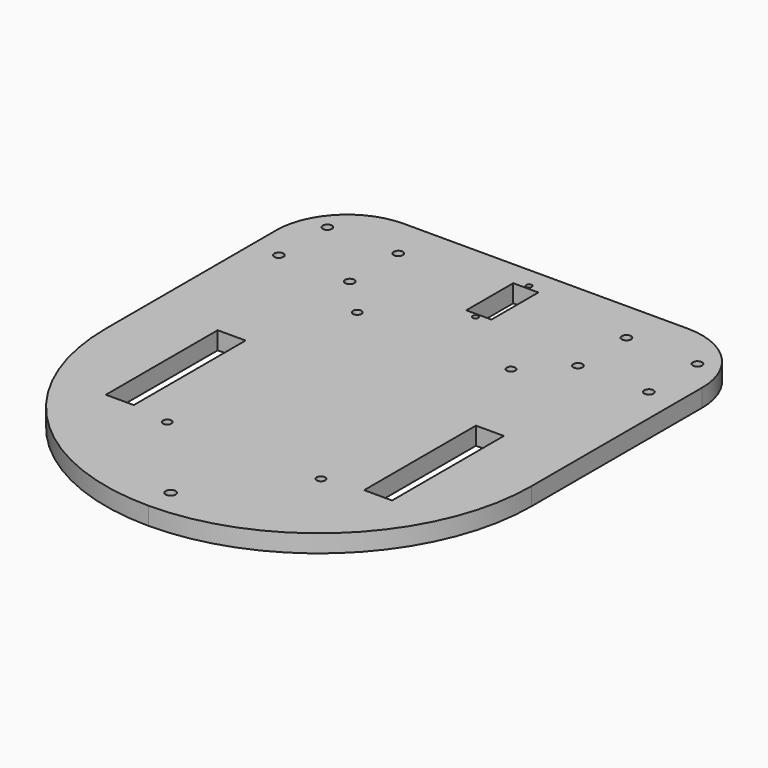
from build123d import *

# Parameters (mm, degrees)
F0_R     = 1.524
F1_DEPTH = 6.35
F2_R     = 1.651
F3_DEPTH = 6.351
F4_R     = 1.778
F5_DEPTH = 6.351
F6_W     = 10
F6_H     = 50
F6_W_2   = 9
F6_H_2   = 21
F6_R     = 1
F7_DEPTH = 6.351


with BuildPart() as f1:
    # F0 (on Top) → F1 (new body)
    with BuildSketch(Plane.XY):
        with BuildLine():
            Line((36.191804, 81.707741), (-65.408196, 81.707741))
            ThreePointArc((-65.408196, 81.707741), (-83.368708, 74.268254), (-90.808196, 56.307741))
            Line((-90.808196, 56.307741), (-90.808196, -19.892259))
            ThreePointArc((-90.808196, -19.892259), (-68.489733, -73.773795), (-14.608196, -96.092259))
            ThreePointArc((-14.608196, -96.092259), (39.273341, -73.773795), (61.591804, -19.892259))
            Line((61.591804, -19.892259), (61.591804, 56.307741))
            ThreePointArc((61.591804, 56.307741), (54.152316, 74.268254), (36.191804, 81.707741))
        make_face()
        with Locations((-42.108196, -53.292259)):
            Circle(F0_R, mode=Mode.SUBTRACT)
        with Locations((12.891804, -53.292259)):
            Circle(F0_R, mode=Mode.SUBTRACT)
        with Locations((-42.108196, 31.707741)):
            Circle(F0_R, mode=Mode.SUBTRACT)
        with Locations((12.891804, 31.707741)):
            Circle(F0_R, mode=Mode.SUBTRACT)
    extrude(amount=F1_DEPTH)

    # F2 (on face) → F3 (cut, through all)
    with BuildSketch(Plane.XY.offset(6.35)):
        with Locations((-80.808196, 66.707741)):
            Circle(F2_R)
        with Locations((-80.808196, 45.007741)):
            Circle(F2_R)
        with Locations((-55.408196, 66.707741)):
            Circle(F2_R)
        with Locations((-55.408196, 45.007741)):
            Circle(F2_R)
        with Locations((26.191804, 66.707741)):
            Circle(F2_R)
        with Locations((51.591804, 66.707741)):
            Circle(F2_R)
        with Locations((26.191804, 45.007741)):
            Circle(F2_R)
        with Locations((51.591804, 45.007741)):
            Circle(F2_R)
    extrude(amount=-F3_DEPTH, mode=Mode.SUBTRACT)

    # F4 (on face) → F5 (cut, through all)
    with BuildSketch(Plane.XY.offset(6.35)):
        with Locations((-14.608196, -86.092259)):
            Circle(F4_R)
    extrude(amount=-F5_DEPTH, mode=Mode.SUBTRACT)

    # F6 (on face) → F7 (cut, through all)
    with BuildSketch(Plane.XY.offset(6.35)):
        with Locations((-60.808196, -26.092259)):
            Rectangle(F6_W, F6_H)
        with Locations((31.591804, -26.092259)):
            Rectangle(F6_W, F6_H)
        with Locations((-14.608196, 62.207741)):
            Rectangle(F6_W_2, F6_H_2)
        with Locations((-14.608196, 74.207741)):
            Circle(F6_R)
        with Locations((-14.608196, 50.207741)):
            Circle(F6_R)
    extrude(amount=-F7_DEPTH, mode=Mode.SUBTRACT)


solid = f1.part
